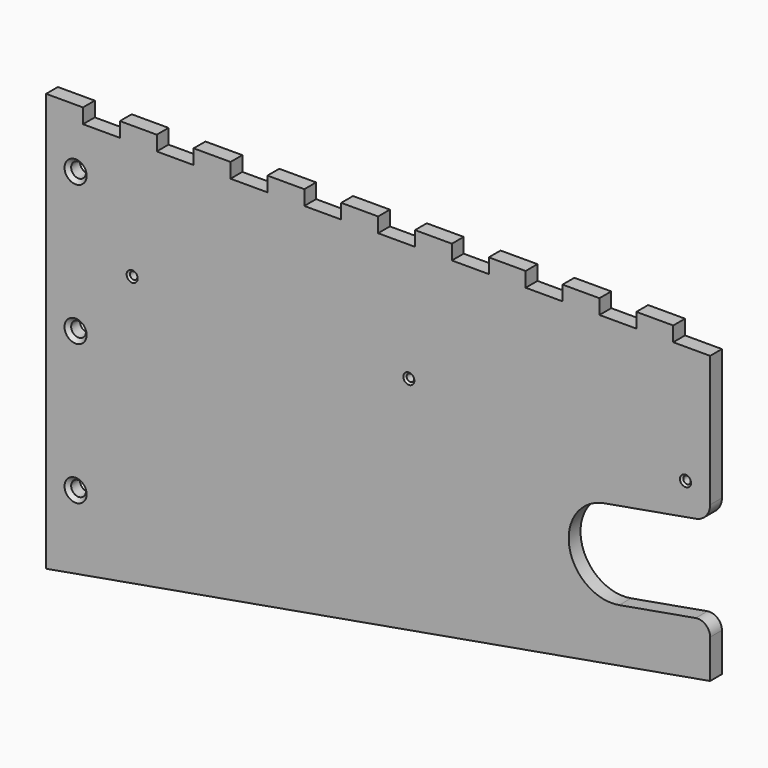
from build123d import *

# Parameters (mm, degrees)
F1_DEPTH       = 6
F3_D           = 6
F3_CSINK_D     = 9
F3_CSINK_ANGLE = 90
F5_D           = 3
F5_CSINK_D     = 4.5
F5_CSINK_ANGLE = 90


with BuildPart() as f1:
    # F0 (on Front) → F1 (new body)
    with BuildSketch(Plane.XZ):
        with BuildLine():
            Line((0, 170), (0, 0))
            Line((0, 0), (270, 47.6082847913))
            Line((270, 47.6082847913), (270, 63.3243455574))
            ThreePointArc((270, 63.3243455574), (268.2139380484, 67.154567773), (264.1317591117, 68.2483843224))
            Line((264.1317591117, 68.2483843224), (233.0388431092, 62.7658643223))
            ThreePointArc((233.0388431092, 62.7658643223), (212.7658643223, 76.9611568908), (226.9611568908, 97.2341356777))
            Line((226.9611568908, 97.2341356777), (264.2155372437, 103.8030880835))
            ThreePointArc((264.2155372437, 103.8030880835), (268.3623111018, 106.1972290868), (270, 110.6967423546))
            Line((270, 110.6967423546), (270, 164))
            Line((270, 164), (255, 164))
            Line((255, 164), (255, 170))
            Line((255, 170), (240, 170))
            Line((240, 170), (240, 164))
            Line((240, 164), (225, 164))
            Line((225, 164), (225, 170))
            Line((225, 170), (210, 170))
            Line((210, 170), (210, 164))
            Line((210, 164), (195, 164))
            Line((195, 164), (195, 170))
            Line((195, 170), (180, 170))
            Line((180, 170), (180, 164))
            Line((180, 164), (165, 164))
            Line((165, 164), (165, 170))
            Line((165, 170), (150, 170))
            Line((150, 170), (150, 164))
            Line((150, 164), (135, 164))
            Line((135, 164), (135, 170))
            Line((135, 170), (120, 170))
            Line((120, 170), (120, 164))
            Line((120, 164), (105, 164))
            Line((105, 164), (105, 170))
            Line((105, 170), (90, 170))
            Line((90, 170), (90, 164))
            Line((90, 164), (75, 164))
            Line((75, 164), (75, 170))
            Line((75, 170), (60, 170))
            Line((60, 170), (60, 164))
            Line((60, 164), (45, 164))
            Line((45, 164), (45, 170))
            Line((45, 170), (30, 170))
            Line((30, 170), (30, 164))
            Line((30, 164), (15, 164))
            Line((15, 164), (15, 170))
            Line((15, 170), (0, 170))
        make_face()
    extrude(amount=F1_DEPTH)

    # F3 (through all)
    with Locations(Plane.XZ.offset(6)):
        with Locations((12, 146), (12, 89), (12, 32)):
            CounterSinkHole(F3_D / 2, F3_CSINK_D / 2, counter_sink_angle=F3_CSINK_ANGLE)

    # F5 (through all)
    with Locations(Plane.XZ.offset(6)):
        with Locations((35, 116), (147.5, 116), (260, 116)):
            CounterSinkHole(F5_D / 2, F5_CSINK_D / 2, counter_sink_angle=F5_CSINK_ANGLE)


solid = f1.part
